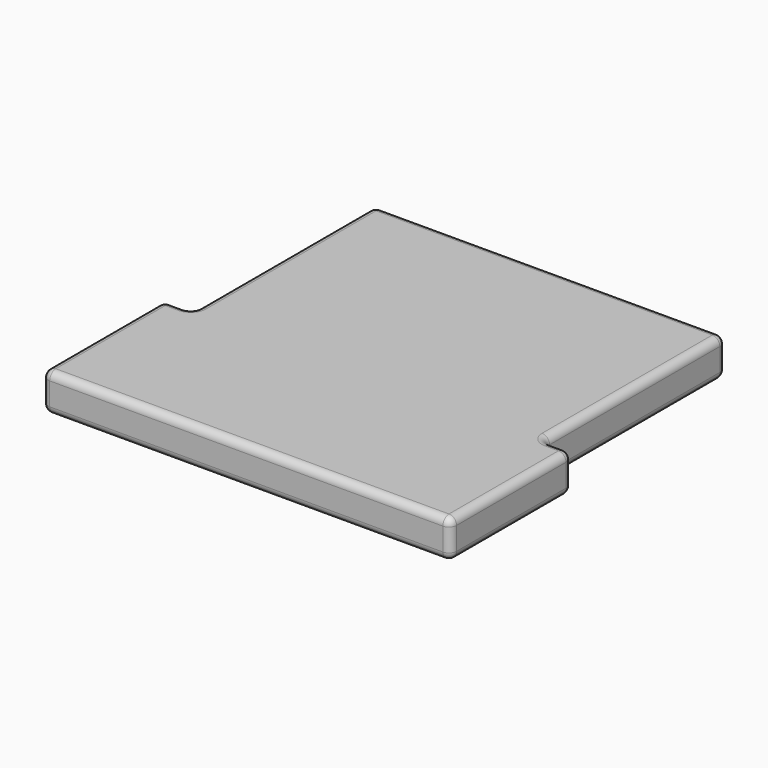
from build123d import *

# Parameters (mm, degrees)
F1_DEPTH = 25.4
F2_R     = 5.08


with BuildPart() as f1:
    # F0 (on Top) → F1 (new body)
    with BuildSketch(Plane.XY):
        Polygon((0, 127), (-117.475, 127), (-117.475, -25.4), (-136.525, -25.4), (-136.525, -127), (0, -127), align=None)
        Polygon((117.475, 127), (0, 127), (0, -127), (136.525, -127), (136.525, -25.4), (117.475, -25.4), align=None)
    extrude(amount=F1_DEPTH)

    # F2
    f2_edges = [f1.edges().sort_by_distance(p)[0] for p in [
        (0, -127, 0),
        (-117.475, 50.8, 25.4),
        (117.475, 50.8, 0),
        (136.525, -76.2, 25.4),
        (127, -25.4, 25.4),
        (117.475, 127, 12.7),
        (136.525, -76.2, 0),
        (-136.525, -76.2, 25.4),
        (117.475, 50.8, 25.4),
        (0, -127, 25.4),
        (0, 127, 25.4),
        (136.525, -25.4, 12.7),
        (-127, -25.4, 0),
        (-127, -25.4, 25.4),
        (-136.525, -25.4, 12.7),
        (-117.475, 50.8, 0),
        (0, 127, 0),
        (-136.525, -127, 12.7),
        (136.525, -127, 12.7),
        (117.475, -25.4, 12.7),
        (-136.525, -76.2, 0),
        (-117.475, -25.4, 12.7),
        (-117.475, 127, 12.7),
        (127, -25.4, 0),
    ]]
    fillet(f2_edges, radius=F2_R)


solid = f1.part
